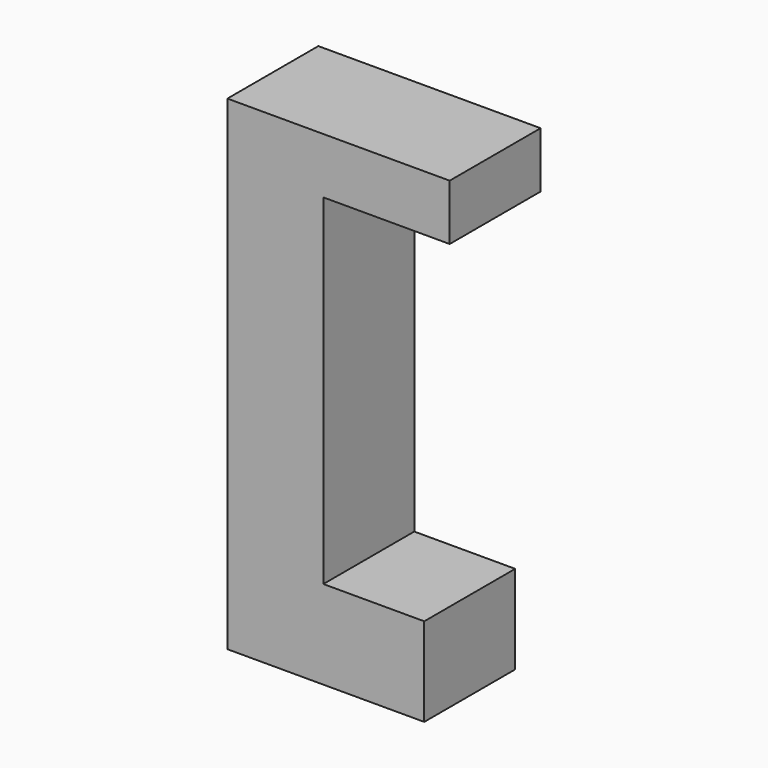
from build123d import *

# Parameters (mm, degrees)
F0_W     = 21.445978
F0_H     = 76.069072
F1_DEPTH = 12.7


with BuildPart() as f1:
    # F0 (on Front) → F1 (new body, symmetric)
    with BuildSketch(Plane.XZ):
        Polygon((21.445978, 35.285052), (49.674021, 35.285052), (49.674021, 47.749385), (0, 47.749385), (0, 35.285052), align=None)
        with Locations((10.722989, -2.749484)):
            Rectangle(F0_W, F0_H)
        Polygon((43.991752, -40.78402), (21.445978, -40.78402), (0, -40.78402), (0, -60.580309), (43.991752, -60.580309), align=None)
    extrude(amount=F1_DEPTH, both=True)


solid = f1.part
